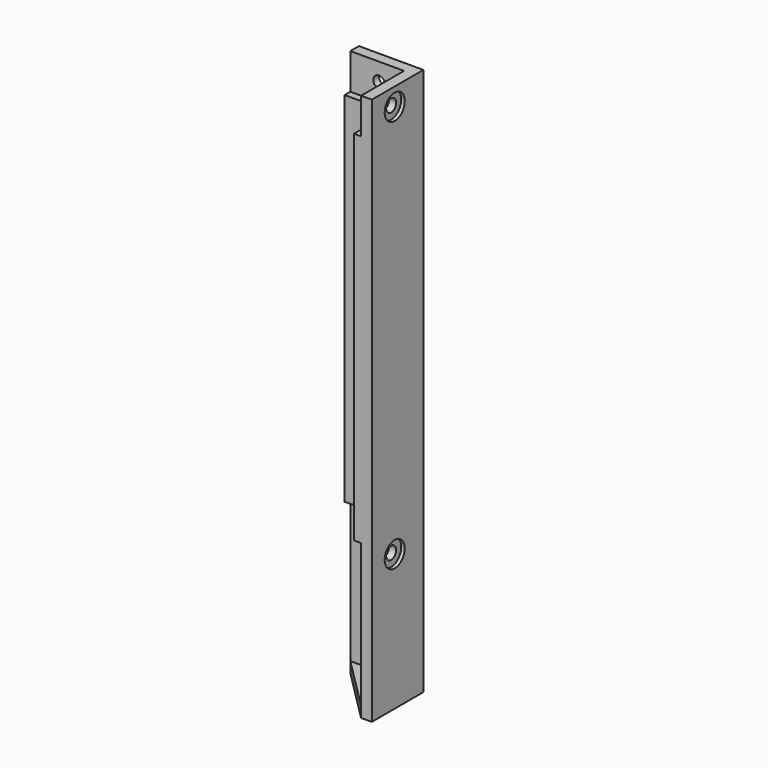
from build123d import *

# Parameters (mm, degrees)
PAD016_DEPTH            = 100
PAD019_DEPTH            = 10
SKETCH047_R             = 1.6
POCKET031_DEPTH         = 5
SKETCH048_R             = 3.5
POCKET027_DEPTH         = 1
SKETCH049_R             = 1.75
POCKET028_DEPTH         = 5
SKETCH050_R             = 3.5
POCKET029_DEPTH         = 1
PAD017_DEPTH            = 40
PAD018_DEPTH            = 3
SKETCH043_R             = 1.75
POCKET030_DEPTH         = 5
SKETCH054_R             = 3.5
POCKET034_DEPTH         = 1
SKETCH052_R             = 1.75
POCKET032_DEPTH         = 5
SKETCH053_R             = 3.5
POCKET033_DEPTH         = 1
BODY006_PLACEMENT_ANGLE = 180


with BuildPart() as part:
    # Sketch044 → Pad016 (new body)
    with BuildSketch(Plane.XY):
        Polygon((-53, -35), (-53, -53), (-35, -53), (-35, -48), (-48, -48), (-48, -35), align=None)
    extrude(amount=PAD016_DEPTH)

    # Sketch046 (on Face8 of Pad016) → Pad019 (join)
    with BuildSketch(Plane.XY.offset(100)):
        Polygon((-53, -35), (-53, -53), (-35, -53), (-35, -50), (-50, -50), (-50, -35), align=None)
    extrude(amount=PAD019_DEPTH)

    # Sketch047 (on Face14 of Pad019) → Pocket031 (cut)
    with BuildSketch(Plane.XZ.offset(53)):
        with Locations((-43, 105)):
            Circle(SKETCH047_R)
    extrude(amount=-POCKET031_DEPTH, mode=Mode.SUBTRACT)

    # Sketch048 (on Face14 of Pocket031) → Pocket027 (cut)
    with BuildSketch(Plane.XZ.offset(53)):
        with Locations((-43, 105)):
            Circle(SKETCH048_R)
    extrude(amount=-POCKET027_DEPTH, mode=Mode.SUBTRACT)

    # Sketch049 (on Face9 of Pocket027) → Pocket028 (cut)
    with BuildSketch(Plane(origin=(-53, 0, 0), x_dir=(0, -1, 0), z_dir=(-1, 0, 0))):
        with Locations((43, 105)):
            Circle(SKETCH049_R)
    extrude(amount=-POCKET028_DEPTH, mode=Mode.SUBTRACT)

    # Sketch050 (on Face9 of Pocket028) → Pocket029 (cut)
    with BuildSketch(Plane(origin=(-53, 0, 0), x_dir=(0, -1, 0), z_dir=(-1, 0, 0))):
        with Locations((43, 105)):
            Circle(SKETCH050_R)
    extrude(amount=-POCKET029_DEPTH, mode=Mode.SUBTRACT)

    # Sketch045 (on Face4 of Pocket029) → Pad017 (join)
    with BuildSketch(Plane(origin=(0, 0, 0), x_dir=(1, 0, 0), z_dir=(0, 0, -1))):
        Polygon((-35, 53), (-53, 53), (-53, 35), (-50, 35), (-50, 50), (-35, 50), align=None)
    extrude(amount=PAD017_DEPTH)

    # Sketch051 (on Face15 of Pad017) → Pad018 (join)
    with BuildSketch(Plane(origin=(0, 0, -40), x_dir=(1, 0, 0), z_dir=(0, 0, -1))):
        Polygon((-35, 50), (-35, 53), (-53, 53), (-53, 35), (-50, 35), align=None)
    extrude(amount=PAD018_DEPTH)

    # Sketch043 (on Face10 of Pad018) → Pocket030 (cut)
    with BuildSketch(Plane(origin=(-53, 0, 0), x_dir=(0, -1, 0), z_dir=(-1, 0, 0))):
        with Locations((43, -5)):
            Circle(SKETCH043_R)
    extrude(amount=-POCKET030_DEPTH, mode=Mode.SUBTRACT)

    # Sketch054 (on Face10 of Pocket030) → Pocket034 (cut)
    with BuildSketch(Plane(origin=(-53, 0, 0), x_dir=(0, -1, 0), z_dir=(-1, 0, 0))):
        with Locations((43, -5)):
            Circle(SKETCH054_R)
    extrude(amount=-POCKET034_DEPTH, mode=Mode.SUBTRACT)

    # Sketch052 (on Face19 of Pocket034) → Pocket032 (cut)
    with BuildSketch(Plane.XZ.offset(53)):
        with Locations((-43, -5)):
            Circle(SKETCH052_R)
    extrude(amount=-POCKET032_DEPTH, mode=Mode.SUBTRACT)

    # Sketch053 (on Face19 of Pocket032) → Pocket033 (cut)
    with BuildSketch(Plane.XZ.offset(53)):
        with Locations((-43, -5)):
            Circle(SKETCH053_R)
    extrude(amount=-POCKET033_DEPTH, mode=Mode.SUBTRACT)


with BuildPart() as part_1:
    # Body006 placement: moved
    add(part.part.rotate(Axis((0, 0, 0), (0, 0, 1)), BODY006_PLACEMENT_ANGLE))


solid = part_1.part
